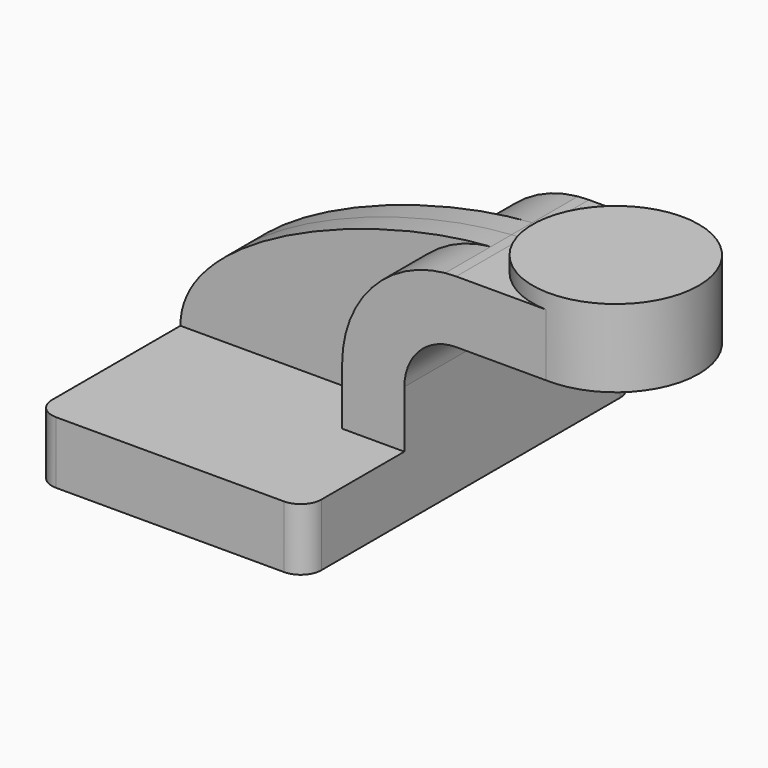
from build123d import *

# Parameters (mm, degrees)
F0_W     = 25.3809136033
F0_H     = 19.05
F1_DEPTH = 25.4
F2_DEPTH = 63.5
F3_DEPTH = 7.9375
F5_R     = 6.35


with BuildPart() as f1:
    # F0 (on Front) → F1 (new body, symmetric)
    with BuildSketch(Plane.XZ):
        with BuildLine():
            Line((22.225, 9.525), (41.275, 9.525))
            Line((41.275, 9.525), (41.275, 27.0002))
            ThreePointArc((41.275, 27.0002), (45.9246798487, 38.2255201513), (57.15, 42.8752))
            Line((57.15, 42.8752), (60.325, 42.8752))
            Line((60.325, 42.8752), (60.325, 61.9252))
            Line((60.325, 61.9252), (57.15, 61.9252))
            add(Edge.make_bspline(
                [(53.7943262834, 61.7636158119), (54.934127265, 61.8370008036), (56.0534706406, 61.8910169909), (57.15, 61.9252)],
                knots=[108.1621965606, 108.1621965606, 108.1621965606, 108.1621965606, 111.5045361635, 111.5045361635, 111.5045361635, 111.5045361635], degree=3))
            ThreePointArc((53.7943262834, 61.7636158119), (31.2950920563, 50.4795390074), (22.225, 27.0002))
            Line((22.225, 27.0002), (22.225, 9.525))
        make_face()
        with Locations((73.0154568017, 52.4002)):
            Rectangle(F0_W, F0_H)
    extrude(amount=F1_DEPTH, both=True)

    # F0 (on Front) → F2 (join, symmetric)
    with BuildSketch(Plane.XZ):
        Polygon((-41.275, 9.525), (-41.275, -9.525), (41.275, -9.525), (41.275, 9.525), (22.225, 9.525), align=None)
    extrude(amount=F2_DEPTH, both=True)

    # F0 (on Front) → F3 (join, symmetric)
    with BuildSketch(Plane.XZ):
        with BuildLine():
            add(Edge.make_bspline(
                [(-41.275, 9.525), (-41.4005826971, 36.730003512), (16.9089727739, 59.3887877429), (53.7943262834, 61.7636158119)],
                knots=[0, 0, 0, 0, 108.1621965606, 108.1621965606, 108.1621965606, 108.1621965606], degree=3))
            Line((-41.275, 9.525), (22.225, 9.525))
            Line((22.225, 9.525), (22.225, 27.0002))
            ThreePointArc((22.225, 27.0002), (31.2950920563, 50.4795390074), (53.7943262834, 61.7636158119))
        make_face()
    extrude(amount=F3_DEPTH, both=True)

    # F0 (on Front) → F4 (revolve)
    with BuildSketch(Plane.XZ):
        Polygon((85.7059136033, 66.675), (85.7059136033, 61.9252), (85.7059136033, 42.8752), (111.125, 42.8752), (111.125, 66.675), align=None)
    revolve(axis=Axis((85.7059136033, 0, 54.7751), (0, 0, 1)))

    # F5
    f5_edges = [f1.edges().sort_by_distance(p)[0] for p in [
        (41.275, -63.5, 0),
        (-41.275, -63.5, 0),
        (41.275, 63.5, 0),
        (-41.275, 63.5, 0),
    ]]
    fillet(f5_edges, radius=F5_R)


solid = f1.part
